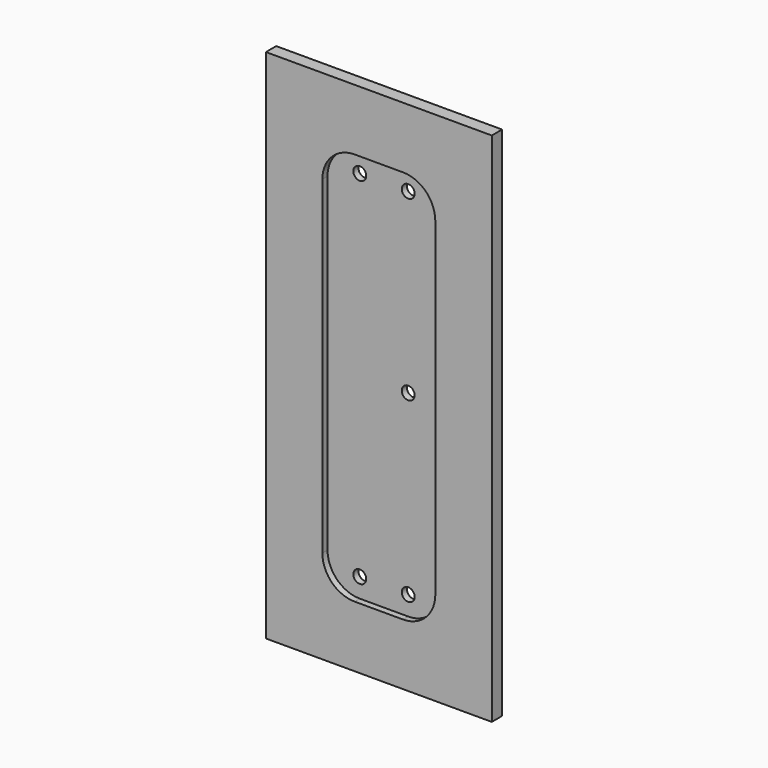
from build123d import *

# Parameters (mm, degrees)
F0_W     = 35
F0_H     = 80
F1_DEPTH = 2
F2_W     = 17.5
F2_H     = 61
F3_DEPTH = 1
F4_R     = 1
F5_DEPTH = 25
F6_R     = 5


with BuildPart() as f1:
    # F0 (on Front) → F1 (new body)
    with BuildSketch(Plane.XZ):
        Rectangle(F0_W, F0_H)
    extrude(amount=F1_DEPTH)

    # F2 (on face) → F3 (cut)
    with BuildSketch(Plane.XZ.offset(2)):
        Rectangle(F2_W, F2_H)
    extrude(amount=-F3_DEPTH, mode=Mode.SUBTRACT)

    # F4 (on face) → F5 (cut)
    with BuildSketch(Plane.XZ.offset(1)):
        with Locations((3.75, 27.5)):
            Circle(F4_R)
        with Locations((3.75, 0)):
            Circle(F4_R)
        with Locations((3.75, -27.5)):
            Circle(F4_R)
        with Locations((-3.75, 27.5)):
            Circle(F4_R)
        with Locations((-3.75, -27.5)):
            Circle(F4_R)
    extrude(amount=-F5_DEPTH, mode=Mode.SUBTRACT)

    # F6
    f6_edges = [f1.edges().sort_by_distance(p)[0] for p in [
        (-8.75, -1.5, -30.5),
        (8.75, -1.5, -30.5),
        (-8.75, -1.5, 30.5),
        (8.75, -1.5, 30.5),
    ]]
    fillet(f6_edges, radius=F6_R)


solid = f1.part
